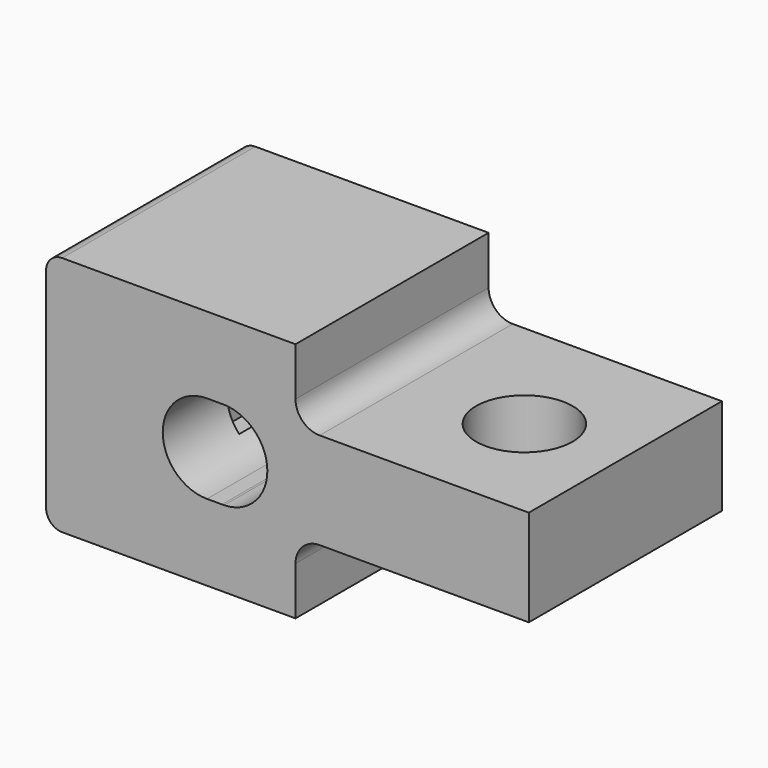
from build123d import *

# Parameters (mm, degrees)
F1_DEPTH = 15
F2_R     = 3
F3_DEPTH = 15.001
F4_W     = 3
F4_H     = 7
F5_DEPTH = 10
F6_R     = 2
F7_DEPTH = 5


with BuildPart() as f1:
    # F0 (on Front) → F1 (new body)
    with BuildSketch(Plane.XZ):
        with BuildLine():
            Line((15.5, 15), (1, 15))
            ThreePointArc((1, 15), (0.292893, 14.707107), (0, 14))
            Line((0, 14), (0, 1))
            ThreePointArc((0, 1), (0.292893, 0.292893), (1, 0))
            Line((1, 0), (15.5, 0))
            Line((15.5, 0), (15.5, 3))
            ThreePointArc((15.5, 3), (15.93934, 4.06066), (17, 4.5))
            Line((17, 4.5), (30, 4.5))
            Line((30, 4.5), (30, 10.5))
            Line((30, 10.5), (17, 10.5))
            ThreePointArc((17, 10.5), (15.93934, 10.93934), (15.5, 12))
            Line((15.5, 12), (15.5, 15))
        make_face()
        with BuildLine():
            ThreePointArc((10.001502, 4.75), (7.25, 7.501527), (10.004555, 10.249996))
            Line((10.004555, 10.249996), (10.99999, 10.25))
            ThreePointArc((10.99999, 10.25), (12.94454, 9.444547), (13.75, 7.5))
            ThreePointArc((13.75, 7.5), (12.967788, 5.578982), (11.066137, 4.750795))
            ThreePointArc((11.066137, 4.750795), (11.002054, 4.750001), (10.937969, 4.7507))
            Line((10.937969, 4.7507), (10.001502, 4.75))
        make_face(mode=Mode.SUBTRACT)
    extrude(amount=F1_DEPTH)

    # F2 (on Top) → F3 (cut, through all)
    with BuildSketch(Plane.XY):
        with Locations((24, -7.846627)):
            Circle(F2_R)
    extrude(amount=F3_DEPTH, mode=Mode.SUBTRACT)

    # F4 (on face) → F5 (cut)
    with BuildSketch(Plane(origin=(0, 0, 0), x_dir=(-1, 0, 0), z_dir=(0, 1, 0))):
        with Locations((-6.5, 7.5)):
            Rectangle(F4_W, F4_H)
    extrude(amount=-F5_DEPTH, mode=Mode.SUBTRACT)

    # F6 (on face) → F7 (cut)
    with BuildSketch(Plane(origin=(0, 0, 0), x_dir=(0, -1, 0), z_dir=(-1, 0, 0))):
        with Locations((6, 7.5)):
            Circle(F6_R)
    extrude(amount=-F7_DEPTH, mode=Mode.SUBTRACT)


solid = f1.part
